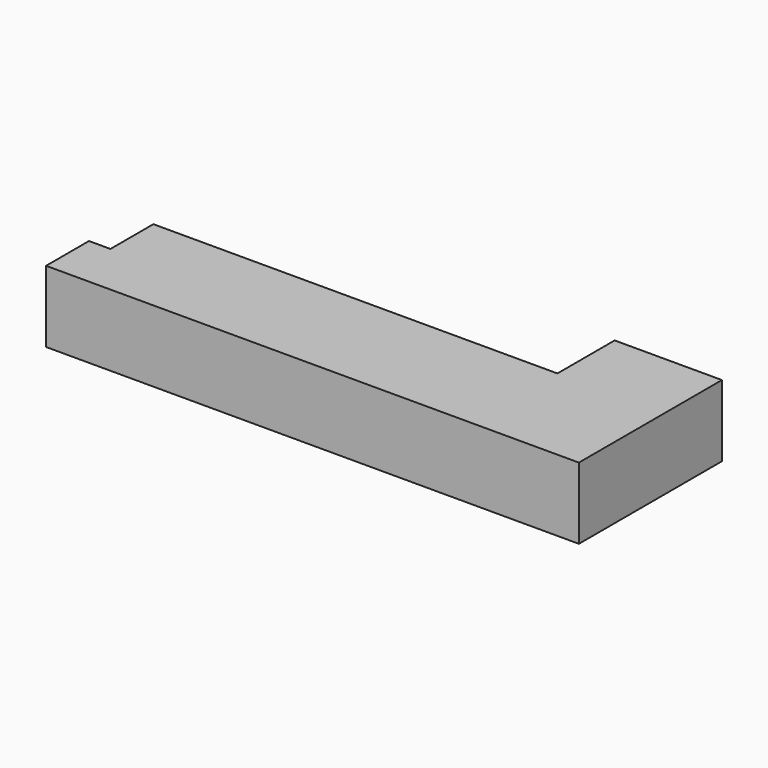
from build123d import *

# Parameters (mm, degrees)
F1_DEPTH = 10
F2_W     = 7.5
F2_H     = 10
F3_DEPTH = 1.5
F4_W     = 7.5
F4_H     = 10
F5_DEPTH = 1.5


with BuildPart() as f1:
    # F0 (on Top) → F1 (new body)
    with BuildSketch(Plane.XY):
        Polygon((58, 0), (0, 0), (0, -15), (73, -15), (73, 10), (58, 10), align=None)
    extrude(amount=F1_DEPTH)

    # F2 (on face) → F3 (cut)
    with BuildSketch(Plane(origin=(0, 0, 0), x_dir=(0, -1, 0), z_dir=(-1, 0, 0))):
        with Locations((3.75, 5)):
            Rectangle(F2_W, F2_H)
    extrude(amount=-F3_DEPTH, mode=Mode.SUBTRACT)

    # F4 (on face) → F5 (join)
    with BuildSketch(Plane(origin=(0, 0, 0), x_dir=(0, -1, 0), z_dir=(-1, 0, 0))):
        with Locations((11.25, 5)):
            Rectangle(F4_W, F4_H)
    extrude(amount=F5_DEPTH)


solid = f1.part
